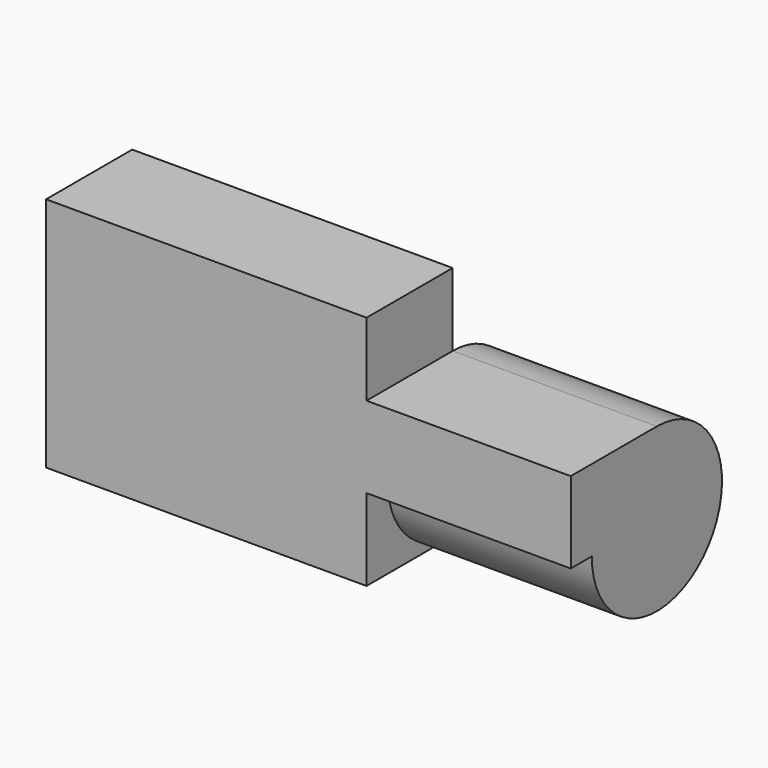
from build123d import *

# Parameters (mm, degrees)
F0_W     = 47.423501
F0_H     = 18.892288
F2_DEPTH = 25


with BuildPart() as f1:
    # F0 (on Front) → F1 (revolve)
    with BuildSketch(Plane.XZ):
        with Locations((23.71175, 28.434824)):
            Rectangle(F0_W, F0_H)
    revolve(axis=Axis((23.71175, 0, 18.98868), (1, 0, 0)))

    # F0 (on Front) → F2 (join)
    with BuildSketch(Plane.XZ):
        Polygon((-74.412487, 54.845471), (-74.412487, 0), (0, 0), (0, 18.98868), (0, 37.880968), (0, 54.845471), align=None)
        with Locations((23.71175, 28.434824)):
            Rectangle(F0_W, F0_H)
    extrude(amount=F2_DEPTH)


solid = f1.part
